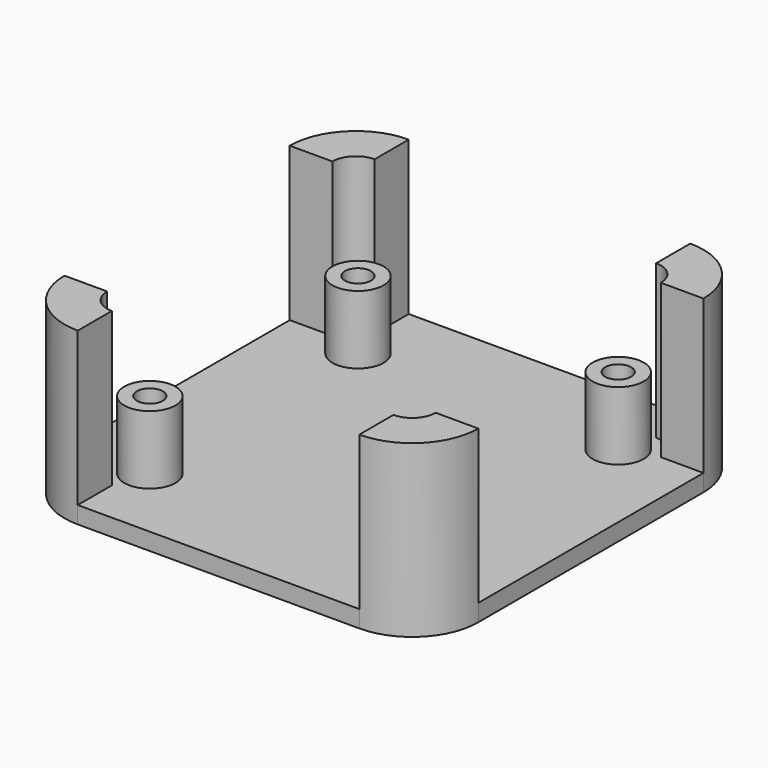
from build123d import *

# Parameters (mm, degrees)
F0_W     = 33
F0_H     = 5
F0_W_2   = 5
F0_H_2   = 33
F0_R     = 3
F1_DEPTH = 2
F2_DEPTH = 20
F0_R_2   = 1.522733
F3_DEPTH = 10


with BuildPart() as f1:
    # F0 (on Top) → F1 (new body)
    with BuildSketch(Plane.XY):
        with Locations((1.472682, 18.798609)):
            Rectangle(F0_W, F0_H)
        with Locations((-20.277318, -2.951391)):
            Rectangle(F0_W_2, F0_H_2)
        with BuildLine():
            Line((17.972682, 16.298609), (-15.027318, 16.298609))
            ThreePointArc((-15.027318, 16.298609), (-16.971862, 15.493153), (-17.777318, 13.548609))
            Line((-17.777318, 13.548609), (-17.777318, -19.451391))
            ThreePointArc((-17.777318, -19.451391), (-16.971862, -21.395934), (-15.027318, -22.201391))
            Line((-15.027318, -22.201391), (17.972682, -22.201391))
            ThreePointArc((17.972682, -22.201391), (19.917226, -21.395934), (20.722682, -19.451391))
            Line((20.722682, -19.451391), (20.722682, 13.548609))
            ThreePointArc((20.722682, 13.548609), (19.917226, 15.493153), (17.972682, 16.298609))
        make_face()
        with Locations((-13.777318, -18.201391)):
            Circle(F0_R, mode=Mode.SUBTRACT)
        with Locations((16.722682, -18.201391)):
            Circle(F0_R, mode=Mode.SUBTRACT)
        with Locations((-13.777318, 12.298609)):
            Circle(F0_R, mode=Mode.SUBTRACT)
        with Locations((16.722682, 12.298609)):
            Circle(F0_R, mode=Mode.SUBTRACT)
        with Locations((23.222682, -2.951391)):
            Rectangle(F0_W_2, F0_H_2)
        with Locations((1.472682, -24.701391)):
            Rectangle(F0_W, F0_H)
    extrude(amount=F1_DEPTH)

    # F0 (on Top) → F2 (join)
    with BuildSketch(Plane.XY):
        with BuildLine():
            ThreePointArc((-17.777318, 13.548609), (-16.971862, 15.493153), (-15.027318, 16.298609))
            Line((-15.027318, 16.298609), (-15.027318, 21.298609))
            ThreePointArc((-15.027318, 21.298609), (-20.507395, 19.028687), (-22.777318, 13.548609))
            Line((-22.777318, 13.548609), (-17.777318, 13.548609))
        make_face()
        with BuildLine():
            Line((17.972682, 21.298609), (17.972682, 16.298609))
            ThreePointArc((17.972682, 16.298609), (19.917226, 15.493153), (20.722682, 13.548609))
            Line((20.722682, 13.548609), (25.722682, 13.548609))
            ThreePointArc((25.722682, 13.548609), (23.45276, 19.028687), (17.972682, 21.298609))
        make_face()
        with BuildLine():
            Line((25.722682, -19.451391), (20.722682, -19.451391))
            ThreePointArc((20.722682, -19.451391), (19.917226, -21.395934), (17.972682, -22.201391))
            Line((17.972682, -22.201391), (17.972682, -27.201391))
            ThreePointArc((17.972682, -27.201391), (23.45276, -24.931468), (25.722682, -19.451391))
        make_face()
        with BuildLine():
            ThreePointArc((-15.027318, -22.201391), (-16.971862, -21.395934), (-17.777318, -19.451391))
            Line((-17.777318, -19.451391), (-22.777318, -19.451391))
            ThreePointArc((-22.777318, -19.451391), (-20.507395, -24.931468), (-15.027318, -27.201391))
            Line((-15.027318, -27.201391), (-15.027318, -22.201391))
        make_face()
    extrude(amount=F2_DEPTH)

    # F0 (on Top) → F3 (join)
    with BuildSketch(Plane.XY):
        with Locations((-13.777318, 12.298609)):
            Circle(F0_R)
        with Locations((-13.777318, 12.298609)):
            Circle(F0_R_2, mode=Mode.SUBTRACT)
        with Locations((16.722682, 12.298609)):
            Circle(F0_R)
        with Locations((16.722682, 12.298609)):
            Circle(F0_R_2, mode=Mode.SUBTRACT)
        with Locations((16.722682, -18.201391)):
            Circle(F0_R)
        with Locations((16.722682, -18.201391)):
            Circle(F0_R_2, mode=Mode.SUBTRACT)
        with Locations((-13.777318, -18.201391)):
            Circle(F0_R)
        with Locations((-13.777318, -18.201391)):
            Circle(F0_R_2, mode=Mode.SUBTRACT)
    extrude(amount=F3_DEPTH)


solid = f1.part
